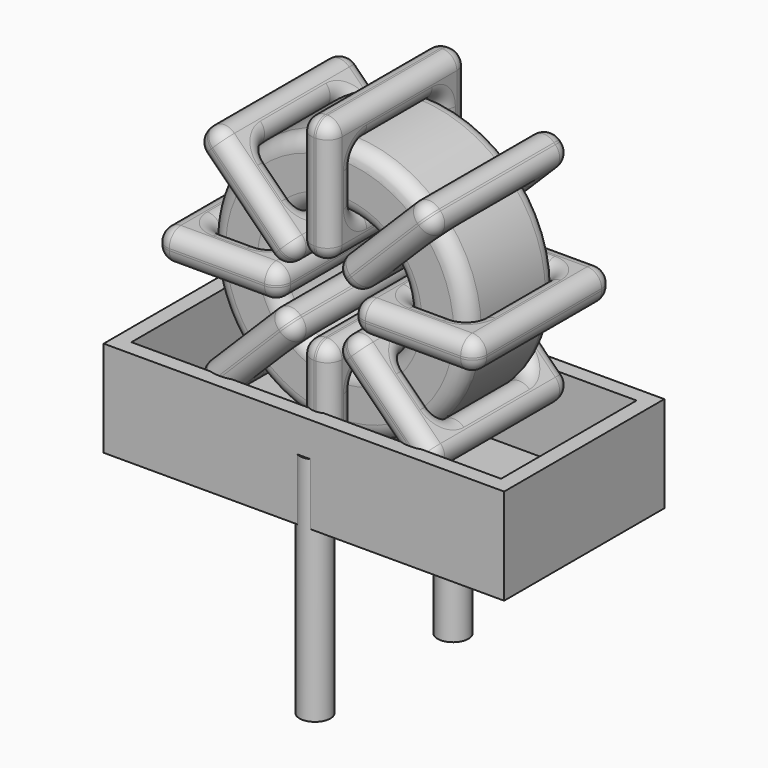
from build123d import *

# Parameters (mm, degrees)
SKETCH001_R       = 0.5
PAD001_DEPTH      = 1
PAD001_DEPTH_BACK = 6.5
SKETCH_R          = 4.2
SKETCH_R_2        = 2.166667
PAD_DEPTH         = 1.8
FILLET_R          = 0.5
SKETCH003_W       = 4.033333
SKETCH003_H       = 5.6
SKETCH003_W_2     = 2.033333
SKETCH003_H_2     = 3.6
PAD002_DEPTH      = 0.5
FILLET001_R       = 0.47
SKETCH004_W       = 4.033333
SKETCH004_H       = 5.6
SKETCH004_W_2     = 2.033333
SKETCH004_H_2     = 3.6
PAD003_DEPTH      = 0.5
FILLET002_R       = 0.47
SKETCH005_W       = 4.033333
SKETCH005_H       = 5.6
SKETCH005_W_2     = 2.033333
SKETCH005_H_2     = 3.6
PAD004_DEPTH      = 0.5
FILLET003_R       = 0.47
SKETCH006_W       = 4.033333
SKETCH006_H       = 5.6
SKETCH006_W_2     = 2.033333
SKETCH006_H_2     = 3.6
PAD005_DEPTH      = 0.5
FILLET004_R       = 0.47
SKETCH007_W       = 13
SKETCH007_H       = 6.5
PAD006_DEPTH      = 0.5
SKETCH008_W       = 13
SKETCH008_H       = 6.5
SKETCH008_W_2     = 12
SKETCH008_H_2     = 5.5
PAD007_DEPTH      = 3.12


with BuildPart() as pad001:
    # Sketch001 → Pad001 (new body, two sides)
    with BuildSketch(Plane.XY.offset(1.5)) as pad001_sk:
        Circle(SKETCH001_R)
        with Locations((0, -5.6)):
            Circle(SKETCH001_R)
    extrude(amount=PAD001_DEPTH)
    extrude(pad001_sk.sketch, amount=-PAD001_DEPTH_BACK)


with BuildPart() as fillet_body:
    # Sketch → Pad (new body, symmetric)
    with BuildSketch(Plane.XZ.offset(2.8)):
        with Locations((0, 6.7)):
            Circle(SKETCH_R)
        with Locations((0, 6.7)):
            Circle(SKETCH_R_2, mode=Mode.SUBTRACT)
    extrude(amount=PAD_DEPTH, both=True)

    # Fillet
    fillet_edges = [fillet_body.edges().sort_by_distance(p)[0] for p in [
        (-2.166667, -4.6, 6.7),
        (-4.2, -4.6, 6.7),
        (-4.2, -1, 6.7),
    ]]
    fillet(fillet_edges, radius=FILLET_R)


with BuildPart() as fillet001:
    # Sketch003 → Pad002 (new body, symmetric)
    with BuildSketch(Plane(origin=(0, 0, 6.7), x_dir=(1, 0, 0), z_dir=(0, 0, -1))):
        with Locations((-3.183333, 2.8)):
            Rectangle(SKETCH003_W, SKETCH003_H)
        with Locations((-3.183333, 2.8)):
            Rectangle(SKETCH003_W_2, SKETCH003_H_2, mode=Mode.SUBTRACT)
        with Locations((3.183333, 2.8)):
            Rectangle(SKETCH003_W, SKETCH003_H)
        with Locations((3.183333, 2.8)):
            Rectangle(SKETCH003_W_2, SKETCH003_H_2, mode=Mode.SUBTRACT)
    extrude(amount=PAD002_DEPTH, both=True)

    # Fillet001
    fillet001_edges = [fillet001.edges().sort_by_distance(p)[0] for p in [
        (-2.166667, -4.6, 6.7),
        (-2.166667, -1, 6.7),
        (-2.166667, -2.8, 7.2),
        (-2.166667, -2.8, 6.2),
        (-5.2, -5.6, 6.7),
        (-1.166667, -5.6, 6.7),
        (-3.183333, -5.6, 7.2),
        (-3.183333, -5.6, 6.2),
        (-1.166667, 0, 6.7),
        (-1.166667, -2.8, 7.2),
        (-1.166667, -2.8, 6.2),
        (2.166667, -4.6, 6.7),
        (4.2, -4.6, 6.7),
        (3.183333, -4.6, 7.2),
        (3.183333, -4.6, 6.2),
        (4.2, -1, 6.7),
        (4.2, -2.8, 7.2),
        (4.2, -2.8, 6.2),
        (1.166667, -5.6, 6.7),
        (5.2, -5.6, 6.7),
        (3.183333, -5.6, 7.2),
        (3.183333, -5.6, 6.2),
        (5.2, 0, 6.7),
        (5.2, -2.8, 7.2),
        (5.2, -2.8, 6.2),
        (-4.2, -4.6, 6.7),
        (-3.183333, -4.6, 7.2),
        (-3.183333, -4.6, 6.2),
        (2.166667, -1, 6.7),
        (2.166667, -2.8, 7.2),
        (2.166667, -2.8, 6.2),
        (3.183333, -1, 7.2),
        (3.183333, -1, 6.2),
        (1.166667, 0, 6.7),
        (3.183333, 0, 7.2),
        (3.183333, 0, 6.2),
        (1.166667, -2.8, 7.2),
        (1.166667, -2.8, 6.2),
        (-5.2, 0, 6.7),
        (-3.183333, 0, 7.2),
        (-3.183333, 0, 6.2),
        (-5.2, -2.8, 7.2),
        (-5.2, -2.8, 6.2),
        (-4.2, -1, 6.7),
        (-4.2, -2.8, 7.2),
        (-4.2, -2.8, 6.2),
        (-3.183333, -1, 7.2),
        (-3.183333, -1, 6.2),
    ]]
    fillet(fillet001_edges, radius=FILLET001_R)


with BuildPart() as fillet002:
    # Sketch004 → Pad003 (new body, symmetric)
    with BuildSketch(Plane(origin=(0, 0, 6.7), x_dir=(0.707108, 0, 0.707106), z_dir=(0.707106, 0, -0.707108))):
        with Locations((-3.183333, 2.8)):
            Rectangle(SKETCH004_W, SKETCH004_H)
        with Locations((-3.183333, 2.8)):
            Rectangle(SKETCH004_W_2, SKETCH004_H_2, mode=Mode.SUBTRACT)
        with Locations((3.183333, 2.8)):
            Rectangle(SKETCH004_W, SKETCH004_H)
        with Locations((3.183333, 2.8)):
            Rectangle(SKETCH004_W_2, SKETCH004_H_2, mode=Mode.SUBTRACT)
    extrude(amount=PAD003_DEPTH, both=True)

    # Fillet002
    fillet002_edges = [fillet002.edges().sort_by_distance(p)[0] for p in [
        (-1.532066, -4.6, 5.167937),
        (-1.532066, -1, 5.167937),
        (-1.885619, -2.8, 5.521491),
        (-1.178513, -2.8, 4.814383),
        (-3.67696, -5.6, 3.023049),
        (-3.67696, 0, 3.023049),
        (-4.030512, -2.8, 3.376603),
        (-3.323407, -2.8, 2.669495),
        (-0.824959, -5.6, 5.875043),
        (-2.604512, 0, 4.8026),
        (-1.897406, 0, 4.095492),
        (1.532066, -4.6, 8.232063),
        (2.969852, -4.6, 9.669845),
        (1.897406, -4.6, 9.304508),
        (2.604512, -4.6, 8.5974),
        (2.969852, -1, 9.669845),
        (2.616299, -2.8, 10.023399),
        (3.323405, -2.8, 9.316291),
        (0.824959, -5.6, 7.524957),
        (3.67696, -5.6, 10.376951),
        (1.897406, -5.6, 9.304508),
        (2.604512, -5.6, 8.5974),
        (3.67696, 0, 10.376951),
        (3.323407, -2.8, 10.730505),
        (4.030512, -2.8, 10.023397),
        (-2.969852, -4.6, 3.730155),
        (-2.604512, -4.6, 4.8026),
        (-1.897406, -4.6, 4.095492),
        (1.532066, -1, 8.232063),
        (1.178513, -2.8, 8.585617),
        (1.885619, -2.8, 7.878509),
        (1.897406, -1, 9.304508),
        (2.604512, -1, 8.5974),
        (0.824959, 0, 7.524957),
        (1.897406, 0, 9.304508),
        (2.604512, 0, 8.5974),
        (0.471406, -2.8, 7.878511),
        (1.178512, -2.8, 7.171403),
        (-0.824959, 0, 5.875043),
        (-1.178512, -2.8, 6.228597),
        (-0.471406, -2.8, 5.521489),
        (-2.604512, -5.6, 4.8026),
        (-1.897406, -5.6, 4.095492),
        (-2.969852, -1, 3.730155),
        (-3.323405, -2.8, 4.083709),
        (-2.616299, -2.8, 3.376601),
        (-2.604512, -1, 4.8026),
        (-1.897406, -1, 4.095492),
    ]]
    fillet(fillet002_edges, radius=FILLET002_R)


with BuildPart() as fillet003:
    # Sketch005 → Pad004 (new body, symmetric)
    with BuildSketch(Plane(origin=(0, 0, 6.7), x_dir=(0.707108, 0, -0.707106), z_dir=(-0.707106, 0, -0.707108))):
        with Locations((-3.183333, 2.8)):
            Rectangle(SKETCH005_W, SKETCH005_H)
        with Locations((-3.183333, 2.8)):
            Rectangle(SKETCH005_W_2, SKETCH005_H_2, mode=Mode.SUBTRACT)
        with Locations((3.183333, 2.8)):
            Rectangle(SKETCH005_W, SKETCH005_H)
        with Locations((3.183333, 2.8)):
            Rectangle(SKETCH005_W_2, SKETCH005_H_2, mode=Mode.SUBTRACT)
    extrude(amount=PAD004_DEPTH, both=True)

    # Fillet003
    fillet003_edges = [fillet003.edges().sort_by_distance(p)[0] for p in [
        (2.969852, -4.6, 3.730155),
        (2.969852, -1, 3.730155),
        (3.323405, -2.8, 4.083709),
        (2.616299, -2.8, 3.376601),
        (3.67696, 0, 3.023049),
        (0.824959, 0, 5.875043),
        (2.604512, 0, 4.8026),
        (1.897406, 0, 4.095492),
        (0.824959, -5.6, 5.875043),
        (1.178512, -2.8, 6.228597),
        (0.471406, -2.8, 5.521489),
        (-2.969852, -4.6, 9.669845),
        (-1.532066, -4.6, 8.232063),
        (-1.897406, -4.6, 9.304508),
        (-2.604512, -4.6, 8.5974),
        (-1.532066, -1, 8.232063),
        (-1.178513, -2.8, 8.585617),
        (-1.885619, -2.8, 7.878509),
        (-0.824959, 0, 7.524957),
        (-3.67696, 0, 10.376951),
        (-1.897406, 0, 9.304508),
        (-2.604512, 0, 8.5974),
        (-3.67696, -5.6, 10.376951),
        (-3.323407, -2.8, 10.730505),
        (-4.030512, -2.8, 10.023397),
        (1.532066, -4.6, 5.167937),
        (2.604512, -4.6, 4.8026),
        (1.897406, -4.6, 4.095492),
        (-2.969852, -1, 9.669845),
        (-2.616299, -2.8, 10.023399),
        (-3.323405, -2.8, 9.316291),
        (-1.897406, -1, 9.304508),
        (-2.604512, -1, 8.5974),
        (-0.824959, -5.6, 7.524957),
        (-1.897406, -5.6, 9.304508),
        (-2.604512, -5.6, 8.5974),
        (-0.471406, -2.8, 7.878511),
        (-1.178512, -2.8, 7.171403),
        (3.67696, -5.6, 3.023049),
        (2.604512, -5.6, 4.8026),
        (1.897406, -5.6, 4.095492),
        (4.030512, -2.8, 3.376603),
        (3.323407, -2.8, 2.669495),
        (1.532066, -1, 5.167937),
        (1.885619, -2.8, 5.521491),
        (1.178513, -2.8, 4.814383),
        (2.604512, -1, 4.8026),
        (1.897406, -1, 4.095492),
    ]]
    fillet(fillet003_edges, radius=FILLET003_R)


with BuildPart() as fillet004:
    # Sketch006 → Pad005 (new body, symmetric)
    with BuildSketch(Plane(origin=(0, 0, 6.7), x_dir=(0, 0, 1), z_dir=(1, 0, 0))):
        with Locations((-3.183333, 2.8)):
            Rectangle(SKETCH006_W, SKETCH006_H)
        with Locations((-3.183333, 2.8)):
            Rectangle(SKETCH006_W_2, SKETCH006_H_2, mode=Mode.SUBTRACT)
        with Locations((3.183333, 2.8)):
            Rectangle(SKETCH006_W, SKETCH006_H)
        with Locations((3.183333, 2.8)):
            Rectangle(SKETCH006_W_2, SKETCH006_H_2, mode=Mode.SUBTRACT)
    extrude(amount=PAD005_DEPTH, both=True)

    # Fillet004
    fillet004_edges = [fillet004.edges().sort_by_distance(p)[0] for p in [
        (0, -4.6, 10.9),
        (0, -1, 10.9),
        (-0.5, -2.8, 10.9),
        (0.5, -2.8, 10.9),
        (0, 0, 11.9),
        (0, 0, 7.866667),
        (-0.5, 0, 9.883333),
        (0.5, 0, 9.883333),
        (0, -5.6, 7.866667),
        (-0.5, -2.8, 7.866667),
        (0.5, -2.8, 7.866667),
        (0, -4.6, 2.5),
        (0, -4.6, 4.533333),
        (-0.5, -4.6, 3.516667),
        (0.5, -4.6, 3.516667),
        (0, -1, 4.533333),
        (-0.5, -2.8, 4.533333),
        (0.5, -2.8, 4.533333),
        (0, 0, 5.533333),
        (0, 0, 1.5),
        (-0.5, 0, 3.516667),
        (0.5, 0, 3.516667),
        (0, -5.6, 1.5),
        (-0.5, -2.8, 1.5),
        (0.5, -2.8, 1.5),
        (0, -4.6, 8.866667),
        (-0.5, -4.6, 9.883333),
        (0.5, -4.6, 9.883333),
        (0, -1, 2.5),
        (-0.5, -2.8, 2.5),
        (0.5, -2.8, 2.5),
        (-0.5, -1, 3.516667),
        (0.5, -1, 3.516667),
        (0, -5.6, 5.533333),
        (-0.5, -5.6, 3.516667),
        (0.5, -5.6, 3.516667),
        (-0.5, -2.8, 5.533333),
        (0.5, -2.8, 5.533333),
        (0, -5.6, 11.9),
        (-0.5, -5.6, 9.883333),
        (0.5, -5.6, 9.883333),
        (-0.5, -2.8, 11.9),
        (0.5, -2.8, 11.9),
        (0, -1, 8.866667),
        (-0.5, -2.8, 8.866667),
        (0.5, -2.8, 8.866667),
        (-0.5, -1, 9.883333),
        (0.5, -1, 9.883333),
    ]]
    fillet(fillet004_edges, radius=FILLET004_R)


with BuildPart() as pad006:
    # Sketch007 → Pad006 (new body)
    with BuildSketch(Plane.XY.offset(0.5)):
        with Locations((0, -2.8)):
            Rectangle(SKETCH007_W, SKETCH007_H)
    extrude(amount=PAD006_DEPTH)


with BuildPart() as pad007:
    # Sketch008 → Pad007 (new body)
    with BuildSketch(Plane.XY.offset(0.5)):
        with Locations((0, -2.8)):
            Rectangle(SKETCH008_W, SKETCH008_H)
        with Locations((0, -2.8)):
            Rectangle(SKETCH008_W_2, SKETCH008_H_2, mode=Mode.SUBTRACT)
    extrude(amount=PAD007_DEPTH)


solid = Compound([pad001.part, fillet_body.part, fillet001.part, fillet002.part, fillet003.part, fillet004.part, pad006.part, pad007.part])
